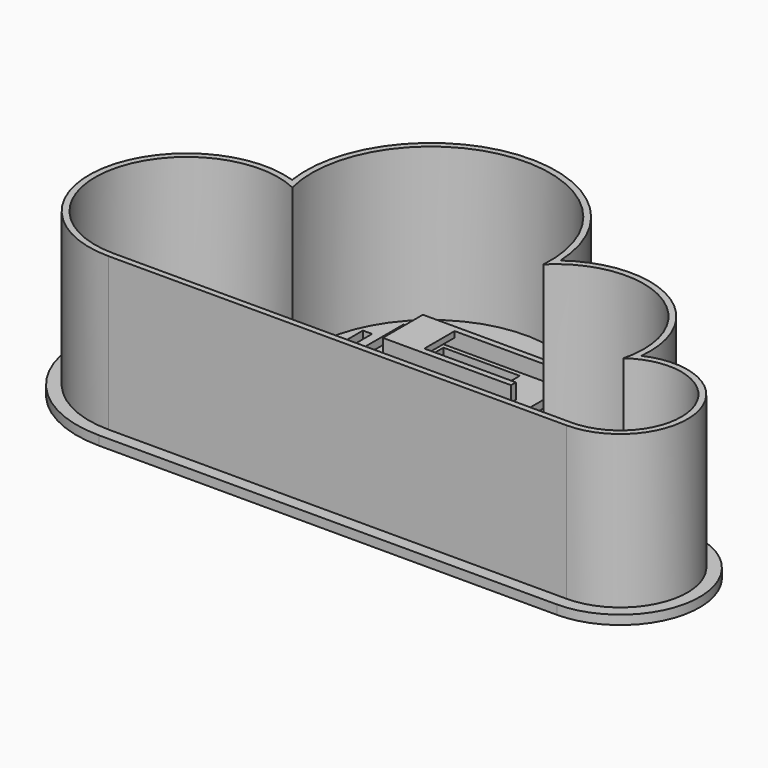
from build123d import *

# Parameters (mm, degrees)
PAD_DEPTH       = 3
PAD001_DEPTH    = 50
SKETCH002_W     = 3
SKETCH002_H     = 40.022023
SKETCH002_H_2   = 46.984086
SKETCH002_H_3   = 35.44599
SKETCH002_H_4   = 53.144135
SKETCH002_H_5   = 52.323956
SKETCH002_H_6   = 51.443955
SKETCH002_H_7   = 77.844136
SKETCH002_H_8   = 86.888804
SKETCH002_H_9   = 92.477993
SKETCH002_H_10  = 96.646621
SKETCH002_H_11  = 98.679188
SKETCH002_H_12  = 99.73997
SKETCH002_H_13  = 87.027274
SKETCH002_H_14  = 92.616463
SKETCH002_H_15  = 96.785091
SKETCH002_H_16  = 98.817658
SKETCH002_H_17  = 99.87844
SKETCH002_H_18  = 64.729341
SKETCH002_H_19  = 66.248963
SKETCH002_H_20  = 64.664765
SKETCH002_H_21  = 62.815378
SKETCH002_H_22  = 59.251553
SKETCH002_H_23  = 56.170098
SKETCH002_H_24  = 55.187725
SKETCH002_H_25  = 61.811397
SKETCH002_H_26  = 27.314911
SKETCH002_H_27  = 33.222923
SKETCH002_H_28  = 33.959049
SKETCH002_H_29  = 32.620414
SKETCH002_H_30  = 20.830507
POCKET_DEPTH    = 5
SKETCH008_W     = 14.14
SKETCH008_H     = 15.18
PAD006_DEPTH    = 2
SKETCH009_R     = 1.45
PAD007_DEPTH    = 3.5
SKETCH010_W     = 8.5
SKETCH010_H     = 4
POCKET002_DEPTH = 5
SKETCH011_W     = 12.5
SKETCH011_H     = 8
SKETCH011_W_2   = 9.755547
SKETCH011_H_2   = 4
PAD008_DEPTH    = 3
SKETCH012_W     = 25
SKETCH012_H     = 9.5
POCKET003_DEPTH = 3
SKETCH013_W     = 25
SKETCH013_H     = 9.5
PAD009_DEPTH    = 3
PAD010_DEPTH    = 5
SKETCH015_W     = 12.4
SKETCH015_H     = 1.9
PAD011_DEPTH    = 10
SKETCH018_W     = 28
SKETCH018_H     = 20.5
POCKET004_DEPTH = 5
SKETCH019_W     = 34
SKETCH019_H     = 26.5
SKETCH019_W_2   = 12
SKETCH019_H_2   = 9
PAD013_DEPTH    = 3
PAD014_DEPTH    = 12
SKETCH023_W     = 21.508011
SKETCH023_H     = 8.416222
POCKET006_DEPTH = 5
SKETCH021_W     = 8
SKETCH021_H     = 2
PAD020_DEPTH    = 20.5
SKETCH022_W     = 21.638504
SKETCH022_H     = 8.450729
POCKET007_DEPTH = 5


with BuildPart() as part:
    # Sketch → Pad (new body)
    with BuildSketch(Plane.XY):
        with BuildLine():
            Line((0, 0), (150, 0))
            ThreePointArc((150, 0), (175.877063, 28.52539), (144.973102, 51.509416))
            ThreePointArc((144.973102, 51.509416), (127.778752, 79.465558), (94.989024, 80.888668))
            ThreePointArc((94.989024, 80.888668), (46.087395, 117.228988), (5.792545, 71.530922))
            ThreePointArc((5.792545, 71.530922), (-35.882539, 38.905753), (0, 0))
        make_face()
    extrude(amount=PAD_DEPTH)

    # Sketch001 (on Face7 of Pad) → Pad001 (join)
    with BuildSketch(Plane.XY.offset(3)):
        with BuildLine():
            ThreePointArc((10.248035, 66.314646), (-31.575851, 41.192847), (0, 4))
            Line((0, 4), (150, 4))
            ThreePointArc((150, 4), (171.498282, 30.671602), (140.869871, 46.016012))
            ThreePointArc((140.869871, 46.016012), (125.515601, 76.154592), (91.741435, 74.312487))
            ThreePointArc((91.741435, 74.312487), (46.778108, 113.278573), (10.248035, 66.314646))
        make_face()
        with BuildLine():
            ThreePointArc((12.933885, 63.068702), (-29.257999, 42.630948), (0, 6))
            Line((0, 6), (150, 6))
            ThreePointArc((150, 6), (169.000724, 32.242795), (138.138237, 42.102751))
            ThreePointArc((138.138237, 42.102751), (124.501789, 74.430488), (89.701546, 69.960761))
            ThreePointArc((89.701546, 69.960761), (47.295327, 111.318379), (12.933885, 63.068702))
        make_face(mode=Mode.SUBTRACT)
    extrude(amount=PAD001_DEPTH)

    # Sketch002 (on Face19 of Pad001) → Pocket (cut)
    with BuildSketch(Plane.XY.offset(3)):
        with Locations((-11.97, 36.050401)):
            Rectangle(SKETCH002_W, SKETCH002_H)
        with Locations((-5.97, 35.673008)):
            Rectangle(SKETCH002_W, SKETCH002_H_2)
        with Locations((-17.97, 36.161824)):
            Rectangle(SKETCH002_W, SKETCH002_H_3)
        with Locations((0.03, 36.435891)):
            Rectangle(SKETCH002_W, SKETCH002_H_4)
        with Locations((6.03, 35.798208)):
            Rectangle(SKETCH002_W, SKETCH002_H_5)
        with Locations((12.03, 35.358207)):
            Rectangle(SKETCH002_W, SKETCH002_H_6)
        with Locations((18.03, 48.558298)):
            Rectangle(SKETCH002_W, SKETCH002_H_7)
        with Locations((24.03, 53.080632)):
            Rectangle(SKETCH002_W, SKETCH002_H_8)
        with Locations((30.03, 55.875226)):
            Rectangle(SKETCH002_W, SKETCH002_H_9)
        with Locations((36.03, 57.95954)):
            Rectangle(SKETCH002_W, SKETCH002_H_10)
        with Locations((42.03, 58.975824)):
            Rectangle(SKETCH002_W, SKETCH002_H_11)
        with Locations((48.03, 59.506215)):
            Rectangle(SKETCH002_W, SKETCH002_H_12)
        with Locations((84.263429, 48.558298)):
            Rectangle(SKETCH002_W, SKETCH002_H_7)
        with Locations((78.03, 53.011397)):
            Rectangle(SKETCH002_W, SKETCH002_H_13)
        with Locations((72.03, 55.805991)):
            Rectangle(SKETCH002_W, SKETCH002_H_14)
        with Locations((66.03, 57.890305)):
            Rectangle(SKETCH002_W, SKETCH002_H_15)
        with Locations((60.03, 58.906589)):
            Rectangle(SKETCH002_W, SKETCH002_H_16)
        with Locations((54.03, 59.43698)):
            Rectangle(SKETCH002_W, SKETCH002_H_17)
        with Locations((114.263429, 42.000901)):
            Rectangle(SKETCH002_W, SKETCH002_H_18)
        with Locations((108.263429, 42.760711)):
            Rectangle(SKETCH002_W, SKETCH002_H_19)
        with Locations((120.263429, 41.968612)):
            Rectangle(SKETCH002_W, SKETCH002_H_20)
        with Locations((102.263429, 41.043919)):
            Rectangle(SKETCH002_W, SKETCH002_H_21)
        with Locations((96.263429, 39.262006)):
            Rectangle(SKETCH002_W, SKETCH002_H_22)
        with Locations((90.263429, 37.721279)):
            Rectangle(SKETCH002_W, SKETCH002_H_23)
        with Locations((132.263429, 37.230092)):
            Rectangle(SKETCH002_W, SKETCH002_H_24)
        with Locations((126.263429, 40.541928)):
            Rectangle(SKETCH002_W, SKETCH002_H_25)
        with Locations((138.263429, 23.293685)):
            Rectangle(SKETCH002_W, SKETCH002_H_26)
        with Locations((144.263429, 26.240008)):
            Rectangle(SKETCH002_W, SKETCH002_H_27)
        with Locations((150.263429, 26.47446)):
            Rectangle(SKETCH002_W, SKETCH002_H_28)
        with Locations((156.084839, 25.805143)):
            Rectangle(SKETCH002_W, SKETCH002_H_29)
        with Locations((162.084839, 24.66542)):
            Rectangle(SKETCH002_W, SKETCH002_H_30)
    extrude(amount=-POCKET_DEPTH, mode=Mode.SUBTRACT)

    # Sketch008 (on Face142 of Pocket) → Pad006 (join)
    with BuildSketch(Plane(origin=(0, 6, 0), x_dir=(-1, 0, 0), z_dir=(0, 1, 0))):
        with Locations((-15.101, 10.59)):
            Rectangle(SKETCH008_W, SKETCH008_H)
    extrude(amount=PAD006_DEPTH)

    # Sketch009 (on Face142 of Pad006) → Pad007 (join)
    with BuildSketch(Plane(origin=(0, 8, 0), x_dir=(-1, 0, 0), z_dir=(0, 1, 0))):
        with Locations((-10.531, 12.18)):
            Circle(SKETCH009_R)
        with Locations((-19.671, 12.18)):
            Circle(SKETCH009_R)
    extrude(amount=PAD007_DEPTH)

    # Sketch010 (on Face137 of Pad007) → Pocket002 (cut)
    with BuildSketch(Plane.XY.offset(3)):
        with Locations((15.101, 11.5)):
            Rectangle(SKETCH010_W, SKETCH010_H)
    extrude(amount=-POCKET002_DEPTH, mode=Mode.SUBTRACT)

    # Sketch011 (on Face141 of Pocket002) → Pad008 (join)
    with BuildSketch(Plane.XY.offset(3)):
        with Locations((15.101, 11.5)):
            Rectangle(SKETCH011_W, SKETCH011_H)
        with Locations((15.129075, 11.5)):
            Rectangle(SKETCH011_W_2, SKETCH011_H_2, mode=Mode.SUBTRACT)
    extrude(amount=-PAD008_DEPTH)

    # Sketch012 (on Face137 of Pad008) → Pocket003 (cut)
    with BuildSketch(Plane.XY.offset(3)):
        with Locations((51.03, 88.200667)):
            Rectangle(SKETCH012_W, SKETCH012_H)
    extrude(amount=-POCKET003_DEPTH, mode=Mode.SUBTRACT)

    # Sketch013 (on Face157 of Pocket003) → Pad009 (join)
    with BuildSketch(Plane.XY.offset(3)):
        Polygon((74.53, 96.200666), (74.53, 80.200666), (27.53, 80.200666), (27.53, 96.200668), (27.53, 102.542603), (36.647774, 108.153458), (47.975346, 112.282196), (69.889435, 107.412399), (74.53, 102.542603), align=None)
        with Locations((51.03, 88.200667)):
            Rectangle(SKETCH013_W, SKETCH013_H, mode=Mode.SUBTRACT)
    extrude(amount=-PAD009_DEPTH)

    # Sketch014 (on Face183 of Pad009) → Pad010 (join)
    with BuildSketch(Plane.XY.offset(3)):
        Polygon((31.03, 94.400667), (71.03, 94.400667), (71.03, 96.400667), (29.03, 96.400667), (29.03, 80.000667), (71.03, 80.000667), (71.03, 82.000667), (31.03, 82.000667), align=None)
    extrude(amount=PAD010_DEPTH)

    # Sketch015 (on Face255 of Pad010) → Pad011 (join)
    with BuildSketch(Plane.YZ.offset(31.03)):
        with Locations((88.200667, 7.05)):
            Rectangle(SKETCH015_W, SKETCH015_H)
    extrude(amount=PAD011_DEPTH)

    # Sketch018 (on Face133 of Pad011) → Pocket004 (cut)
    with BuildSketch(Plane.XY.offset(3)):
        with Locations((50.92524, 36.195099)):
            Rectangle(SKETCH018_W, SKETCH018_H)
    extrude(amount=-POCKET004_DEPTH, mode=Mode.SUBTRACT)

    # Sketch019 (on Face238 of Pocket004) → Pad013 (join)
    with BuildSketch(Plane.XY.offset(3)):
        with Locations((50.92524, 36.195099)):
            Rectangle(SKETCH019_W, SKETCH019_H)
        with Locations((58.92524, 30.445099)):
            Rectangle(SKETCH019_W_2, SKETCH019_H_2, mode=Mode.SUBTRACT)
    extrude(amount=-PAD013_DEPTH)

    # Sketch020 (on Face240 of Pad013) → Pad014 (join)
    with BuildSketch(Plane.XY.offset(3)):
        Polygon((37.72524, 46.445099), (37.72524, 25.945099), (64.92524, 25.945099), (64.92524, 46.445099), (67.92524, 46.445099), (67.92524, 22.95), (33.92524, 22.95), (33.92524, 46.445099), align=None)
    extrude(amount=PAD014_DEPTH)

    # Sketch023 → Pocket006 (cut)
    with BuildSketch(Plane(origin=(33.92524, 0, 0), x_dir=(0, -1, 0), z_dir=(-1, 0, 0))):
        with Locations((-36.699104, 11.708111)):
            Rectangle(SKETCH023_W, SKETCH023_H)
    extrude(amount=-POCKET006_DEPTH, mode=Mode.SUBTRACT)

    # Sketch021 (on Face262 of Pad014) → Pad020 (join)
    with BuildSketch(Plane(origin=(0, 25.945099, 0), x_dir=(-1, 0, 0), z_dir=(0, 1, 0))):
        with Locations((-58.92524, 14)):
            Rectangle(SKETCH021_W, SKETCH021_H)
        with Locations((-43.72524, 14)):
            Rectangle(SKETCH021_W, SKETCH021_H)
    extrude(amount=PAD020_DEPTH)

    # Sketch022 → Pocket007 (cut)
    with BuildSketch(Plane.YZ.offset(67.92524)):
        with Locations((36.764351, 11.725364)):
            Rectangle(SKETCH022_W, SKETCH022_H)
    extrude(amount=-POCKET007_DEPTH, mode=Mode.SUBTRACT)


with BuildPart() as part_1:
    # Body placement: moved
    add(part.part.moved(Location((-11.864784, 86.400009, -99.458885))))


solid = part_1.part
